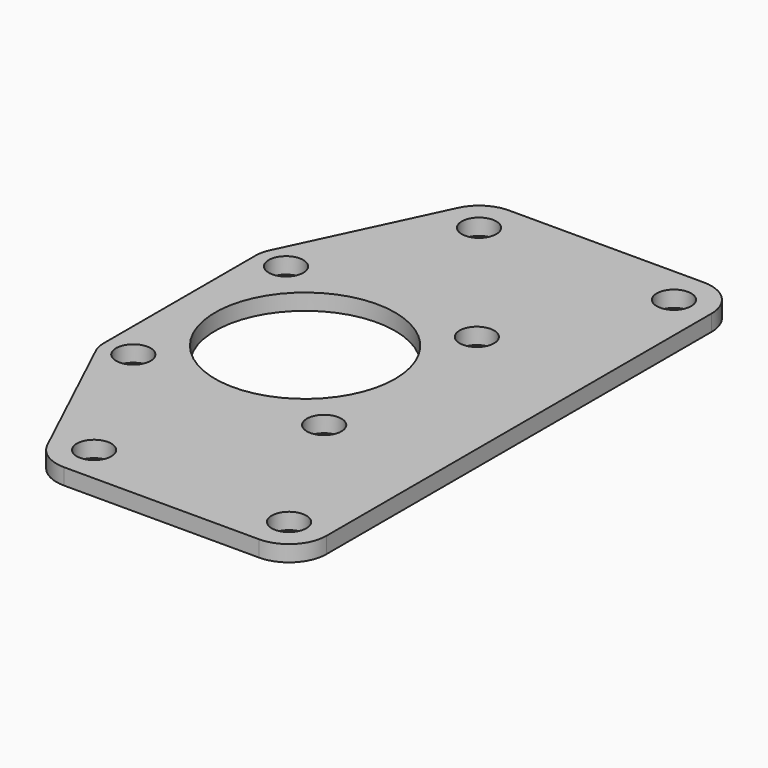
from build123d import *

# Parameters (mm, degrees)
F0_R     = 1.8288
F0_R_2   = 9.525
F1_DEPTH = 1.70942
F2_R     = 3.96875


with BuildPart() as f1:
    # F0 (on Top) → F1 (new body)
    with BuildSketch(Plane.XY):
        with BuildLine():
            Line((-13.277788, 10.102788), (-13.277788, -10.102788))
            ThreePointArc((-13.277788, -10.102788), (-13.200764, -10.797891), (-12.97343, -11.459268))
            Line((-12.97343, -11.459268), (-5.550808, -27.167343))
            ThreePointArc((-5.550808, -27.167343), (-4.086366, -28.824382), (-1.962506, -29.440492))
            Line((-1.962506, -29.440492), (22.643744, -29.440492))
            Line((22.643744, -29.440492), (22.643744, 29.440492))
            Line((22.643744, 29.440492), (-1.962506, 29.440492))
            ThreePointArc((-1.962506, 29.440492), (-4.086366, 28.824382), (-5.550808, 27.167343))
            Line((-5.550808, 27.167343), (-12.97343, 11.459268))
            ThreePointArc((-12.97343, 11.459268), (-13.200764, 10.797891), (-13.277788, 10.102788))
        make_face()
        with Locations((-1.962506, -25.471742)):
            Circle(F0_R, mode=Mode.SUBTRACT)
        with Locations((-10.102788, -10.102788)):
            Circle(F0_R, mode=Mode.SUBTRACT)
        with Locations((18.674994, -25.471742)):
            Circle(F0_R, mode=Mode.SUBTRACT)
        with Locations((10.102788, -10.102788)):
            Circle(F0_R, mode=Mode.SUBTRACT)
        with Locations((-10.102788, 10.102788)):
            Circle(F0_R, mode=Mode.SUBTRACT)
        Circle(F0_R_2, mode=Mode.SUBTRACT)
        with Locations((-1.962506, 25.471742)):
            Circle(F0_R, mode=Mode.SUBTRACT)
        with Locations((10.102788, 10.102788)):
            Circle(F0_R, mode=Mode.SUBTRACT)
        with Locations((18.674994, 25.471742)):
            Circle(F0_R, mode=Mode.SUBTRACT)
    extrude(amount=F1_DEPTH)

    # F2
    f2_edges = [f1.edges().sort_by_distance(p)[0] for p in [
        (22.643744, -29.440492, 0.85471),
        (22.643744, 29.440492, 0.85471),
    ]]
    fillet(f2_edges, radius=F2_R)


solid = f1.part
